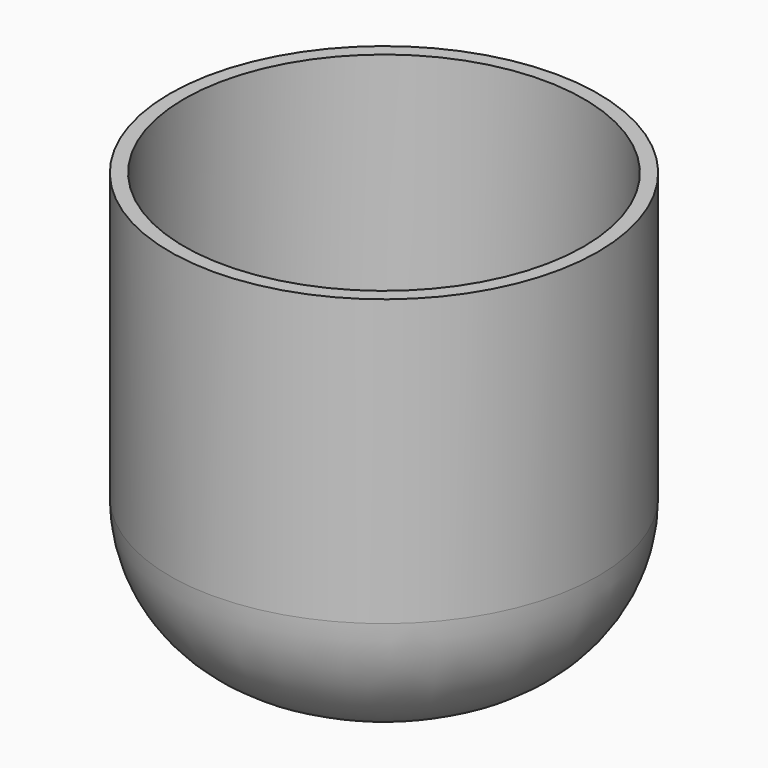
from build123d import *

# Parameters (mm, degrees)
F0_R     = 42.0600289117
F1_DEPTH = 76.2
F2_T     = -2.54
F3_R     = 25.4
F4_R     = 39.5200289117
F5_DEPTH = 25.4
F8_R     = 38.1
F9_DEPTH = 76.2
F10_T    = -2.54
F11_R    = 25.4


with BuildPart() as f1:
    # F0 (on Top) → F1 (new body)
    with BuildSketch(Plane.XY):
        Circle(F0_R)
    extrude(amount=F1_DEPTH)

    # F2
    f2_openings = [f1.faces().sort_by_distance(p)[0] for p in [
        (0, 0, 76.2),
    ]]
    offset(amount=F2_T, openings=f2_openings)

    # F3
    f3_edges = [f1.edges().sort_by_distance(p)[0] for p in [
        (-39.520029, 0, 2.54),
        (-42.060029, 0, 0),
    ]]
    fillet(f3_edges, radius=F3_R)


with BuildPart() as f5:
    # F4 (on face) → F5 (new body)
    with BuildSketch(Plane.XY.offset(76.2)):
        Circle(F4_R)
    extrude(amount=F5_DEPTH)


with BuildPart() as f9:
    # F8 (on Top) → F9 (new body)
    with BuildSketch(Plane.XY):
        Circle(F8_R)
    extrude(amount=F9_DEPTH)

    # F10
    f10_openings = [f9.faces().sort_by_distance(p)[0] for p in [
        (0, 0, 76.2),
    ]]
    offset(amount=F10_T, openings=f10_openings)

    # F11
    f11_edges = [f9.edges().sort_by_distance(p)[0] for p in [
        (-35.56, 0, 2.54),
        (-38.1, 0, 0),
    ]]
    fillet(f11_edges, radius=F11_R)


solid = f9.part
